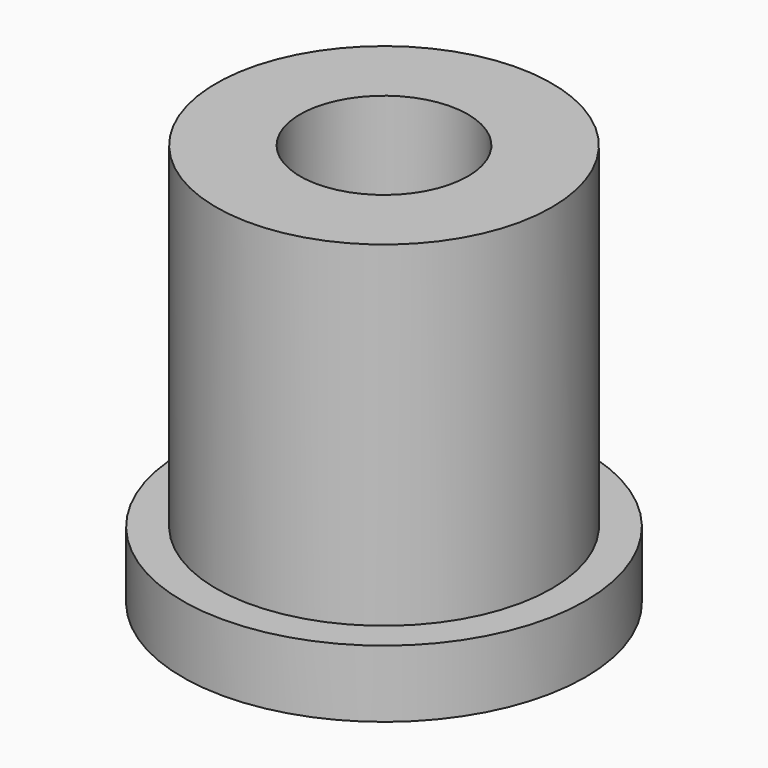
from build123d import *

# Parameters (mm, degrees)
SKETCH_R      = 6
SKETCH_R_2    = 2.5
PAD_DEPTH     = 2
SKETCH001_R   = 5
SKETCH001_R_2 = 2.5
PAD001_DEPTH  = 10


with BuildPart() as part:
    # Sketch → Pad (new body)
    with BuildSketch(Plane.XY):
        Circle(SKETCH_R)
        Circle(SKETCH_R_2, mode=Mode.SUBTRACT)
    extrude(amount=PAD_DEPTH)

    # Sketch001 (on Face4 of Pad) → Pad001 (join)
    with BuildSketch(Plane.XY.offset(2)):
        Circle(SKETCH001_R)
        Circle(SKETCH001_R_2, mode=Mode.SUBTRACT)
    extrude(amount=PAD001_DEPTH)


solid = part.part
